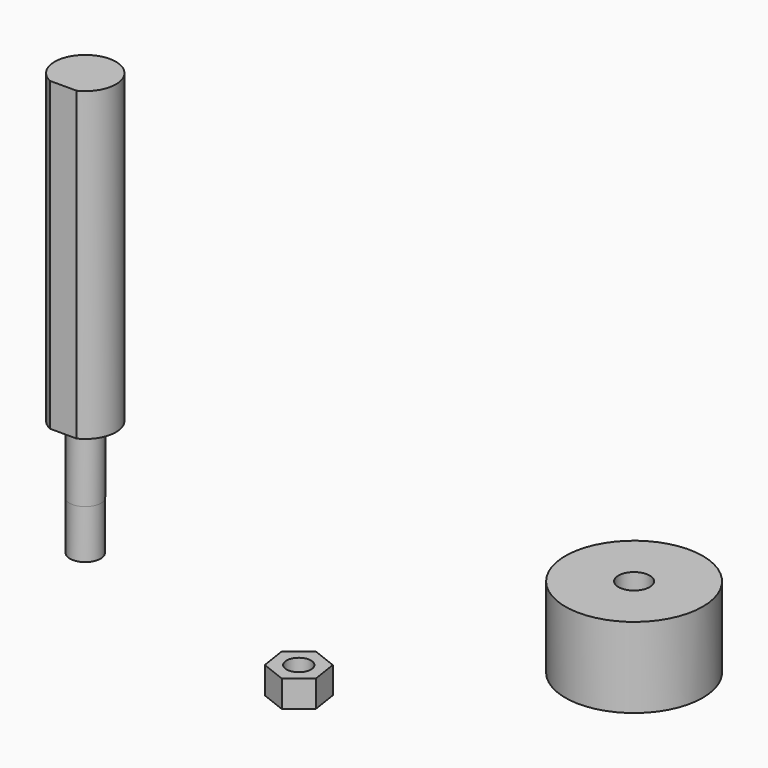
from build123d import *

# Parameters (mm, degrees)
F2_W     = 11.071604
F2_H     = 2.54
F3_DEPTH = 127.001
F4_R     = 28.4988
F4_R_2   = 6.4897
F5_DEPTH = 33.274
F6_R     = 5.08
F7_DEPTH = 11.1125


with BuildPart() as f1:
    # F0 (on Right) → F1 (revolve)
    with BuildSketch(Plane.YZ):
        Polygon((12.7, 48.26), (12.7, 175.26), (0, 175.26), (0, 0), (6.35, 0), (6.35, 20.32), (6.477, 20.32), (6.477, 48.26), align=None)
    revolve(axis=Axis((0, 0, 87.63), (0, 0, 1)))

    # F2 (on face) → F3 (cut, through all)
    with BuildSketch(Plane(origin=(0, 0, 48.26), x_dir=(1, 0, 0), z_dir=(0, 0, -1))):
        with Locations((0, 12.7)):
            Rectangle(F2_W, F2_H)
    extrude(amount=-F3_DEPTH, mode=Mode.SUBTRACT)


with BuildPart() as f5:
    # F4 (on Top) → F5 (new body)
    with BuildSketch(Plane.XY):
        with Locations((191.047534, 45.66491)):
            Circle(F4_R)
        with Locations((191.047534, 45.66491)):
            Circle(F4_R_2, mode=Mode.SUBTRACT)
    extrude(amount=F5_DEPTH)


with BuildPart() as f7:
    # F6 (on Top) → F7 (new body)
    with BuildSketch(Plane.XY):
        Polygon((117.994984, -45.613205), (126.583389, -38.742485), (124.927373, -27.869348), (114.682952, -23.866931), (106.094547, -30.737651), (107.750563, -41.610788), align=None)
        with Locations((116.338968, -34.740068)):
            Circle(F6_R, mode=Mode.SUBTRACT)
    extrude(amount=F7_DEPTH)


solid = Compound([f1.part, f5.part, f7.part])
